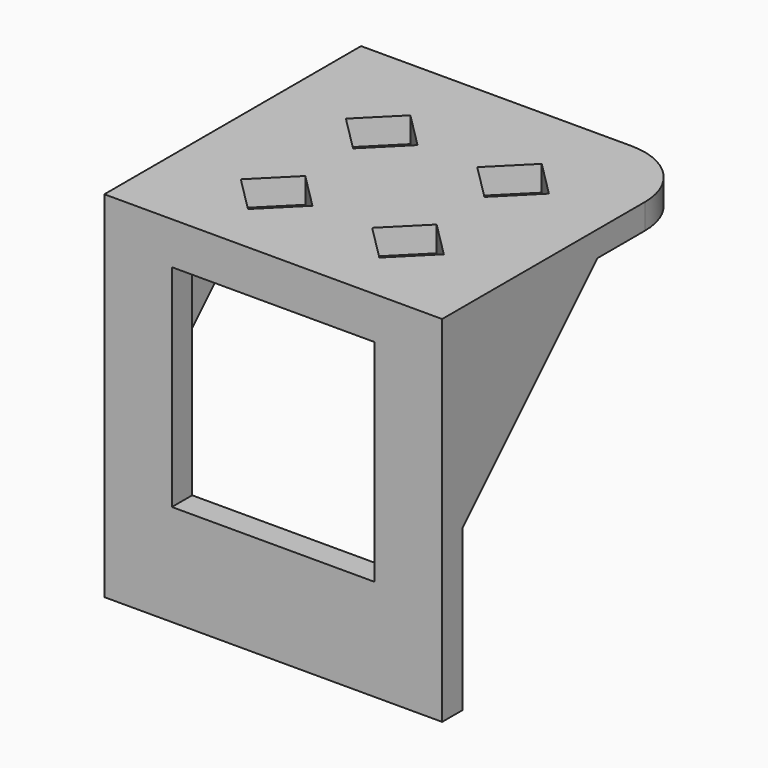
from build123d import *

# Parameters (mm, degrees)
SKETCH027_W             = 40
SKETCH027_H             = 38
PAD018_DEPTH            = 3
SKETCH028_W             = 40
SKETCH028_H             = 3
PAD019_DEPTH            = 39
SKETCH029_R             = 1.5
SKETCH029_W             = 24
SKETCH029_H             = 25
POCKET009_DEPTH         = 5
POCKET010_DEPTH         = 5
PAD020_DEPTH            = 3
PAD021_DEPTH            = 3
FILLET012_R             = 8
BODY006_PLACEMENT_ANGLE = 180


with BuildPart() as part:
    # Sketch027 (on Face1 of Binder004) → Pad018 (new body)
    with BuildSketch(Plane(origin=(0, 0, 3.2), x_dir=(1, 0, 0), z_dir=(0, 0, -1))):
        with Locations((-83.6396103068, 84.6396103068)):
            Rectangle(SKETCH027_W, SKETCH027_H)
    extrude(amount=PAD018_DEPTH)

    # Sketch028 (on Face6 of Pad018) → Pad019 (join)
    with BuildSketch(Plane(origin=(0, 0, 0.2), x_dir=(1, 0, 0), z_dir=(0, 0, -1))):
        with Locations((-83.6396103068, 67.1396103068)):
            Rectangle(SKETCH028_W, SKETCH028_H)
    extrude(amount=PAD019_DEPTH)

    # Sketch029 (on Face7 of Pad019) → Pocket009 (cut)
    with BuildSketch(Plane(origin=(0, -65.6396103068, 0), x_dir=(-1, 0, 0), z_dir=(0, 1, 0))):
        with Locations((-92.5127987438, -33.2127134049)):
            Circle(SKETCH029_R)
        with Locations((-73.1038955613, -33.2)):
            Circle(SKETCH029_R)
        with Locations((83.6396103068, -14.3)):
            Rectangle(SKETCH029_W, SKETCH029_H)
    extrude(amount=-POCKET009_DEPTH, mode=Mode.SUBTRACT)

    # Sketch030 (on Face4 of Pocket009) → Pocket010 (cut)
    with BuildSketch(Plane.XY.offset(3.2)):
        Polygon((-91.417785, -87.175144), (-95.660426, -91.417785), (-91.417785, -95.660426), (-87.175144, -91.417785), align=None)
        Polygon((-80.104076, -91.417785), (-75.861436, -87.175144), (-71.618795, -91.417785), (-75.861436, -95.660426), align=None)
        Polygon((-91.417785, -80.104076), (-87.175144, -75.861436), (-91.417785, -71.618795), (-95.660426, -75.861436), align=None)
        Polygon((-80.104076, -75.861436), (-75.861436, -80.104076), (-71.618795, -75.861436), (-75.861436, -71.618795), align=None)
    extrude(amount=-POCKET010_DEPTH, mode=Mode.SUBTRACT)

    # Sketch031 (on Face3 of Pocket010) → Pad020 (join)
    with BuildSketch(Plane(origin=(-103.6396103068, 0, 0), x_dir=(0, -1, 0), z_dir=(-1, 0, 0))):
        Polygon((88.6396103068, 0.2), (68.6396103068, -19.8), (68.6396103068, 0.2), align=None)
    extrude(amount=-PAD020_DEPTH)

    # Sketch032 (on Face2 of Pad020) → Pad021 (join)
    with BuildSketch(Plane.YZ.offset(-63.6396103068)):
        Polygon((-88.6396103068, 0.2), (-68.6396103068, 0.2), (-68.6396103068, -19.8), align=None)
    extrude(amount=-PAD021_DEPTH)

    # Fillet012
    fillet012_edges = [part.edges().sort_by_distance(p)[0] for p in [
        (-103.63961, -103.63961, 1.7),
    ]]
    fillet(fillet012_edges, radius=FILLET012_R)


with BuildPart() as part_1:
    # Body006 placement: moved
    add(part.part.rotate(Axis((0, 0, 0), (0, 0, 1)), BODY006_PLACEMENT_ANGLE))


solid = part_1.part
